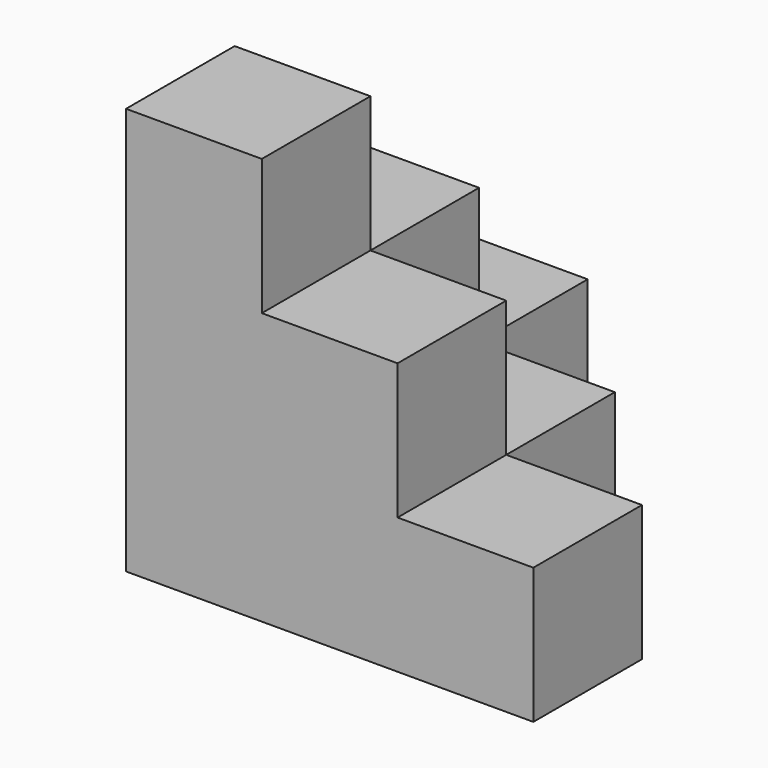
from build123d import *

# Parameters (mm, degrees)
BOX001_W     = 10
BOX001_H     = 10
BOX001_DEPTH = 10
BOX002_W     = 10
BOX002_H     = 10
BOX002_DEPTH = 10
BOX003_W     = 10
BOX003_H     = 10
BOX003_DEPTH = 10
BOX004_W     = 10
BOX004_H     = 10
BOX004_DEPTH = 10
BOX005_W     = 10
BOX005_H     = 10
BOX005_DEPTH = 10
BOX006_W     = 10
BOX006_H     = 10
BOX006_DEPTH = 10
BOX007_W     = 10
BOX007_H     = 10
BOX007_DEPTH = 10
BOX008_W     = 10
BOX008_H     = 10
BOX008_DEPTH = 10
BOX009_W     = 10
BOX009_H     = 10
BOX009_DEPTH = 10
BOX_W        = 10
BOX_H        = 10
BOX_DEPTH    = 10


with BuildPart() as cub001:
    # Box001 → Box001 (new body)
    with BuildSketch(Plane(origin=(10, 0, 0), x_dir=(1, 0, 0), z_dir=(0, 0, 1))):
        with Locations((5, 5)):
            Rectangle(BOX001_W, BOX001_H)
    extrude(amount=BOX001_DEPTH)


with BuildPart() as cub002:
    # Box002 → Box002 (new body)
    with BuildSketch(Plane(origin=(0, 10, 0), x_dir=(1, 0, 0), z_dir=(0, 0, 1))):
        with Locations((5, 5)):
            Rectangle(BOX002_W, BOX002_H)
    extrude(amount=BOX002_DEPTH)


with BuildPart() as cub003:
    # Box003 → Box003 (new body)
    with BuildSketch(Plane.XY.offset(10)):
        with Locations((5, 5)):
            Rectangle(BOX003_W, BOX003_H)
    extrude(amount=BOX003_DEPTH)


with BuildPart() as cub004:
    # Box004 → Box004 (new body)
    with BuildSketch(Plane.XY.offset(20)):
        with Locations((5, 5)):
            Rectangle(BOX004_W, BOX004_H)
    extrude(amount=BOX004_DEPTH)


with BuildPart() as cub005:
    # Box005 → Box005 (new body)
    with BuildSketch(Plane(origin=(10, 0, 10), x_dir=(1, 0, 0), z_dir=(0, 0, 1))):
        with Locations((5, 5)):
            Rectangle(BOX005_W, BOX005_H)
    extrude(amount=BOX005_DEPTH)


with BuildPart() as cub006:
    # Box006 → Box006 (new body)
    with BuildSketch(Plane(origin=(20, 0, 0), x_dir=(1, 0, 0), z_dir=(0, 0, 1))):
        with Locations((5, 5)):
            Rectangle(BOX006_W, BOX006_H)
    extrude(amount=BOX006_DEPTH)


with BuildPart() as cub007:
    # Box007 → Box007 (new body)
    with BuildSketch(Plane(origin=(0, 10, 10), x_dir=(1, 0, 0), z_dir=(0, 0, 1))):
        with Locations((5, 5)):
            Rectangle(BOX007_W, BOX007_H)
    extrude(amount=BOX007_DEPTH)


with BuildPart() as cub008:
    # Box008 → Box008 (new body)
    with BuildSketch(Plane(origin=(10, 10, 0), x_dir=(1, 0, 0), z_dir=(0, 0, 1))):
        with Locations((5, 5)):
            Rectangle(BOX008_W, BOX008_H)
    extrude(amount=BOX008_DEPTH)


with BuildPart() as cub009:
    # Box009 → Box009 (new body)
    with BuildSketch(Plane(origin=(0, 20, 0), x_dir=(1, 0, 0), z_dir=(0, 0, 1))):
        with Locations((5, 5)):
            Rectangle(BOX009_W, BOX009_H)
    extrude(amount=BOX009_DEPTH)


with BuildPart() as fusion:
    # Box → Box (new body)
    with BuildSketch(Plane.XY):
        with Locations((5, 5)):
            Rectangle(BOX_W, BOX_H)
    extrude(amount=BOX_DEPTH)

    # Fusion: union Cub001, Cub002, Cub003, Cub004, Cub005, Cub006, Cub007, Cub008, Cub009
    add(cub001.part)
    add(cub002.part)
    add(cub003.part)
    add(cub004.part)
    add(cub005.part)
    add(cub006.part)
    add(cub007.part)
    add(cub008.part)
    add(cub009.part)


solid = fusion.part
